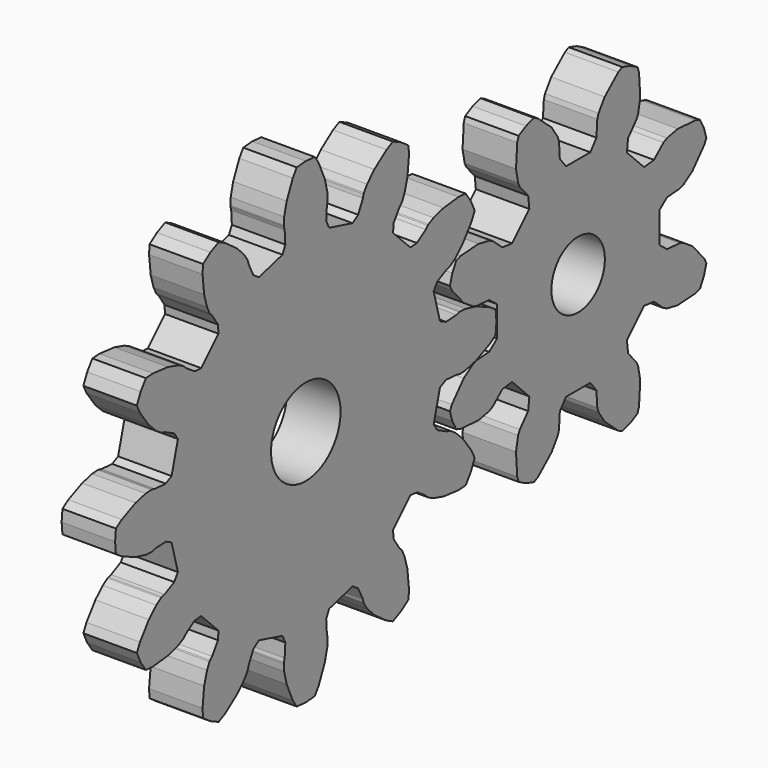
from build123d import *

# Parameters (mm, degrees)
F1_DEPTH = 4
F2_R     = 2.5
F3_DEPTH = 25
F4_R     = 3.25
F5_DEPTH = 25


with BuildPart() as f1:
    # F0 (on Right) → F1 (new body)
    with BuildSketch(Plane.YZ):
        Polygon((4.475036, -9.65123), (5.137134, -9.606305), (5.622818, -8.912677), (5.980676, -8.145248), (5.688533, -7.549392), (4.855847, -6.408259), (4.155875, -5.735091), (3.716169, -5.439825), (3.635569, -5.404138), (3.383806, -5.341919), (2.488097, -4.896087), (2.141182, -4.382206), (2.730542, -2.182685), (3.287919, -1.911109), (4.286543, -1.972862), (4.535685, -2.044859), (4.62333, -2.054254), (5.15176, -2.018399), (6.094537, -1.785404), (7.386231, -1.213497), (7.937162, -0.843541), (8.010963, 0), (7.937162, 0.843541), (7.386231, 1.213497), (6.094537, 1.785404), (5.15176, 2.018399), (4.62333, 2.054254), (4.535685, 2.044859), (4.286543, 1.972862), (3.287919, 1.911109), (2.730542, 2.182685), (2.141182, 4.382206), (2.488097, 4.896087), (3.383806, 5.341919), (3.635569, 5.404138), (3.716169, 5.439825), (4.155875, 5.735091), (4.855847, 6.408259), (5.688533, 7.549392), (5.980676, 8.145248), (5.622818, 8.912677), (5.137134, 9.606305), (4.475036, 9.65123), (3.070443, 9.500669), (2.137476, 9.23106), (1.661915, 8.997897), (1.59071, 8.945938), (1.410945, 8.759015), (0.576988, 8.206224), (-0.041502, 8.162727), (-1.651664, 9.772889), (-1.608167, 10.391379), (-1.055376, 11.225336), (-0.868453, 11.405101), (-0.816494, 11.476306), (-0.583331, 11.951867), (-0.313722, 12.884834), (-0.163161, 14.289427), (-0.208086, 14.951525), (-0.901714, 15.437209), (-1.669143, 15.795067), (-2.264999, 15.502924), (-3.406132, 14.670238), (-4.0793, 13.970266), (-4.374566, 13.53056), (-4.410253, 13.44996), (-4.472472, 13.198197), (-4.918304, 12.302488), (-5.432185, 11.955573), (-7.631706, 12.544933), (-7.903282, 13.10231), (-7.841529, 14.100934), (-7.769532, 14.350076), (-7.760137, 14.437721), (-7.795992, 14.966151), (-8.028987, 15.908928), (-8.600894, 17.200622), (-8.97085, 17.751553), (-9.814391, 17.825354), (-10.657932, 17.751553), (-11.027888, 17.200622), (-11.599795, 15.908928), (-11.83279, 14.966151), (-11.868645, 14.437721), (-11.85925, 14.350076), (-11.787253, 14.100934), (-11.7255, 13.10231), (-11.997076, 12.544933), (-14.196597, 11.955573), (-14.710478, 12.302488), (-15.15631, 13.198197), (-15.218529, 13.44996), (-15.254216, 13.53056), (-15.549482, 13.970266), (-16.22265, 14.670238), (-17.363783, 15.502924), (-17.959639, 15.795067), (-18.727068, 15.437209), (-19.420696, 14.951525), (-19.465621, 14.289427), (-19.31506, 12.884834), (-19.045451, 11.951867), (-18.812288, 11.476306), (-18.760329, 11.405101), (-18.573406, 11.225336), (-18.020615, 10.391379), (-17.977118, 9.772889), (-19.58728, 8.162727), (-20.20577, 8.206224), (-21.039727, 8.759015), (-21.219492, 8.945938), (-21.290697, 8.997897), (-21.766258, 9.23106), (-22.699225, 9.500669), (-24.103818, 9.65123), (-24.765916, 9.606305), (-25.2516, 8.912677), (-25.609458, 8.145248), (-25.317315, 7.549392), (-24.484629, 6.408259), (-23.784657, 5.735091), (-23.344951, 5.439825), (-23.264351, 5.404138), (-23.012588, 5.341919), (-22.116879, 4.896087), (-21.769964, 4.382206), (-22.359324, 2.182685), (-22.916701, 1.911109), (-23.915325, 1.972862), (-24.164467, 2.044859), (-24.252112, 2.054254), (-24.780542, 2.018399), (-25.723319, 1.785404), (-27.015013, 1.213497), (-27.565944, 0.843541), (-27.639745, 0), (-27.565944, -0.843541), (-27.015013, -1.213497), (-25.723319, -1.785404), (-24.780542, -2.018399), (-24.252112, -2.054254), (-24.164467, -2.044859), (-23.915325, -1.972862), (-22.916701, -1.911109), (-22.359324, -2.182685), (-21.769964, -4.382206), (-22.116879, -4.896087), (-23.012588, -5.341919), (-23.264351, -5.404138), (-23.344951, -5.439825), (-23.784657, -5.735091), (-24.484629, -6.408259), (-25.317315, -7.549392), (-25.609458, -8.145248), (-25.2516, -8.912677), (-24.765916, -9.606305), (-24.103818, -9.65123), (-22.699225, -9.500669), (-21.766258, -9.23106), (-21.290697, -8.997897), (-21.219492, -8.945938), (-21.039727, -8.759015), (-20.20577, -8.206224), (-19.58728, -8.162727), (-17.977118, -9.772889), (-18.020615, -10.391379), (-18.573406, -11.225336), (-18.760329, -11.405101), (-18.812288, -11.476306), (-19.045451, -11.951867), (-19.31506, -12.884834), (-19.465621, -14.289427), (-19.420696, -14.951525), (-18.727068, -15.437209), (-17.959639, -15.795067), (-17.363783, -15.502924), (-16.22265, -14.670238), (-15.549482, -13.970266), (-15.254216, -13.53056), (-15.218529, -13.44996), (-15.15631, -13.198197), (-14.710478, -12.302488), (-14.196597, -11.955573), (-11.997076, -12.544933), (-11.7255, -13.10231), (-11.787253, -14.100934), (-11.85925, -14.350076), (-11.868645, -14.437721), (-11.83279, -14.966151), (-11.599795, -15.908928), (-11.027888, -17.200622), (-10.657932, -17.751553), (-9.814391, -17.825354), (-8.97085, -17.751553), (-8.600894, -17.200622), (-8.028987, -15.908928), (-7.795992, -14.966151), (-7.760137, -14.437721), (-7.769532, -14.350076), (-7.841529, -14.100934), (-7.903282, -13.10231), (-7.631706, -12.544933), (-5.432185, -11.955573), (-4.918304, -12.302488), (-4.472472, -13.198197), (-4.410253, -13.44996), (-4.374566, -13.53056), (-4.0793, -13.970266), (-3.406132, -14.670238), (-2.264999, -15.502924), (-1.669143, -15.795067), (-0.901714, -15.437209), (-0.208086, -14.951525), (-0.163161, -14.289427), (-0.313722, -12.884834), (-0.583331, -11.951867), (-0.816494, -11.476306), (-0.868453, -11.405101), (-1.055376, -11.225336), (-1.608167, -10.391379), (-1.651664, -9.772889), (-0.041502, -8.162727), (0.576988, -8.206224), (1.410945, -8.759015), (1.59071, -8.945938), (1.661915, -8.997897), (2.137476, -9.23106), (3.070443, -9.500669), align=None)
        Polygon((-9.000918, -1.827091), (-9.398568, -1.956295), (-9.814391, -2), (-10.230214, -1.956295), (-10.627864, -1.827091), (-10.989962, -1.618034), (-11.300681, -1.338261), (-11.546442, -1), (-11.716504, -0.618034), (-11.803435, -0.209057), (-11.803435, 0.209057), (-11.716504, 0.618034), (-11.546442, 1), (-11.300681, 1.338261), (-10.989962, 1.618034), (-10.627864, 1.827091), (-10.230214, 1.956295), (-9.814391, 2), (-9.398568, 1.956295), (-9.000918, 1.827091), (-8.63882, 1.618034), (-8.328101, 1.338261), (-8.08234, 1), (-7.912278, 0.618034), (-7.825347, 0.209057), (-7.825347, -0.209057), (-7.912278, -0.618034), (-8.08234, -1), (-8.328101, -1.338261), (-8.63882, -1.618034), align=None, mode=Mode.SUBTRACT)
        Polygon((4.645083, 5.693144), (4.254442, 5.559537), (3.8872, 4.872477), (3.661054, 4.126973), (3.842805, 3.756273), (4.955335, 2.481777), (5.808273, 1.909022), (6.151775, 1.791537), (7.334702, 1.711272), (8.060963, 1.138556), (8.060963, -1.138556), (7.334702, -1.711272), (6.151775, -1.791537), (5.808273, -1.909022), (4.955335, -2.481777), (3.842805, -3.756273), (3.661054, -4.126973), (3.8872, -4.872477), (4.254442, -5.559537), (4.645083, -5.693144), (6.332966, -5.807671), (7.341083, -5.609553), (7.66705, -5.449734), (8.560262, -4.670034), (9.478776, -4.561462), (11.088938, -6.171623), (10.980366, -7.090138), (10.200666, -7.98335), (10.040847, -8.309317), (9.842728, -9.317434), (9.957256, -11.005317), (10.090863, -11.395958), (10.777923, -11.7632), (11.523427, -11.989346), (11.894127, -11.807595), (13.168623, -10.695065), (13.741378, -9.842127), (13.858863, -9.498625), (13.939128, -8.315698), (14.511844, -7.589437), (16.788956, -7.589437), (17.361672, -8.315698), (17.441937, -9.498625), (17.559421, -9.842127), (18.132177, -10.695065), (19.406673, -11.807595), (19.777373, -11.989346), (20.522877, -11.7632), (21.209937, -11.395958), (21.343544, -11.005317), (21.458071, -9.317434), (21.259953, -8.309317), (21.100134, -7.98335), (20.320434, -7.090138), (20.211862, -6.171623), (21.822023, -4.561462), (22.740538, -4.670034), (23.63375, -5.449734), (23.959717, -5.609553), (24.967834, -5.807671), (26.655717, -5.693144), (27.046358, -5.559537), (27.413599, -4.872477), (27.639745, -4.126973), (27.457995, -3.756273), (26.345465, -2.481777), (25.492527, -1.909022), (25.149025, -1.791537), (23.966098, -1.711272), (23.239837, -1.138556), (23.239837, 1.138556), (23.966098, 1.711272), (25.149025, 1.791537), (25.492527, 1.909022), (26.345465, 2.481777), (27.457995, 3.756273), (27.639745, 4.126973), (27.413599, 4.872477), (27.046358, 5.559537), (26.655717, 5.693144), (24.967834, 5.807671), (23.959717, 5.609553), (23.63375, 5.449734), (22.740538, 4.670034), (21.822023, 4.561462), (20.211862, 6.171623), (20.320434, 7.090138), (21.100134, 7.98335), (21.259953, 8.309317), (21.458071, 9.317434), (21.343544, 11.005317), (21.209937, 11.395958), (20.522877, 11.7632), (19.777373, 11.989346), (19.406673, 11.807595), (18.132177, 10.695065), (17.559421, 9.842127), (17.441937, 9.498625), (17.361672, 8.315698), (16.788956, 7.589437), (14.511844, 7.589437), (13.939128, 8.315698), (13.858863, 9.498625), (13.741378, 9.842127), (13.168623, 10.695065), (11.894127, 11.807595), (11.523427, 11.989346), (10.777923, 11.7632), (10.090863, 11.395958), (9.957256, 11.005317), (9.842728, 9.317434), (10.040847, 8.309317), (10.200666, 7.98335), (10.980366, 7.090138), (11.088938, 6.171623), (9.478776, 4.561462), (8.560262, 4.670034), (7.66705, 5.449734), (7.341083, 5.609553), (6.332966, 5.807671), align=None)
        Polygon((14.199651, 1.376709), (14.517587, 1.648252), (14.885033, 1.847759), (15.285929, 1.96651), (15.702754, 1.999315), (16.117291, 1.94474), (16.511422, 1.805171), (16.867923, 1.586707), (17.171212, 1.298896), (17.408034, 0.954318), (17.568039, 0.568031), (17.644235, 0.156918), (17.63329, -0.261052), (17.535683, -0.667614), (17.35568, -1.044997), (17.101149, -1.376709), (16.783212, -1.648252), (16.415767, -1.847759), (16.014871, -1.96651), (15.598046, -1.999315), (15.183509, -1.94474), (14.789378, -1.805171), (14.432877, -1.586707), (14.129588, -1.298896), (13.892766, -0.954318), (13.73276, -0.568031), (13.656565, -0.156918), (13.66751, 0.261052), (13.765117, 0.667614), (13.94512, 1.044997), align=None, mode=Mode.SUBTRACT)
    extrude(amount=F1_DEPTH)

    # F2 (on face) → F3 (cut)
    with BuildSketch(Plane.YZ.offset(4)):
        with Locations((15.6504, 0)):
            Circle(F2_R)
    extrude(amount=-F3_DEPTH, mode=Mode.SUBTRACT)

    # F4 (on face) → F5 (cut)
    with BuildSketch(Plane.YZ.offset(4)):
        with Locations((-9.814392, 1e-06)):
            Circle(F4_R)
    extrude(amount=-F5_DEPTH, mode=Mode.SUBTRACT)


solid = f1.part
